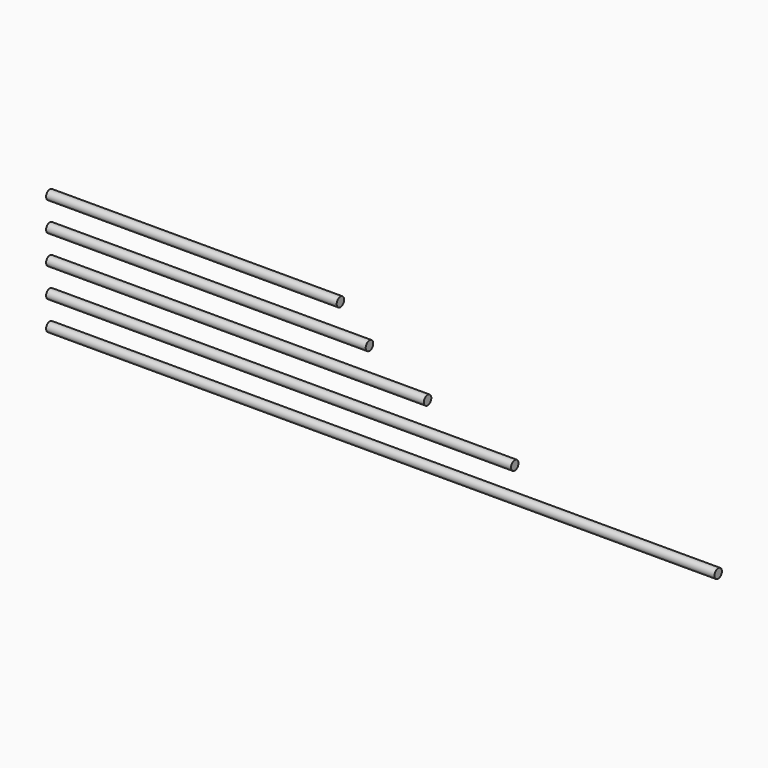
from build123d import *

# Parameters (mm, degrees)
F0_R     = 2.0447
F1_DEPTH = 292.1
F2_DEPTH = 203.2
F4_DEPTH = 165.1
F7_DEPTH = 139.7
F9_DEPTH = 127


with BuildPart() as f1:
    # F0 (on Right) → F1 (new body)
    with BuildSketch(Plane.YZ):
        Circle(F0_R)
    extrude(amount=F1_DEPTH)


with BuildPart() as f2:
    # F0 (on Right) → F2 (new body)
    with BuildSketch(Plane.YZ):
        Circle(F0_R)
    extrude(amount=F2_DEPTH)


with BuildPart() as f1_1:
    # F3: moved
    add(f1.part.moved(Location((0, 0, 12.7))))


with BuildPart() as f4:
    # F0 (on Right) → F4 (new body)
    with BuildSketch(Plane.YZ):
        Circle(F0_R)
    extrude(amount=F4_DEPTH)


with BuildPart() as f2_1:
    # F5: moved
    add(f2.part.moved(Location((0, 0, 25.4))))


with BuildPart() as f4_1:
    # F6: moved
    add(f4.part.moved(Location((0, 0, 38.1))))


with BuildPart() as f7:
    # F0 (on Right) → F7 (new body)
    with BuildSketch(Plane.YZ):
        Circle(F0_R)
    extrude(amount=F7_DEPTH)


with BuildPart() as f7_1:
    # F8: moved
    add(f7.part.moved(Location((0, 0, 50.8))))


with BuildPart() as f9:
    # F0 (on Right) → F9 (new body)
    with BuildSketch(Plane.YZ):
        Circle(F0_R)
    extrude(amount=F9_DEPTH)


with BuildPart() as f9_1:
    # F10: moved
    add(f9.part.moved(Location((0, 0, 63.5))))


solid = Compound([f1_1.part, f2_1.part, f4_1.part, f7_1.part, f9_1.part])
